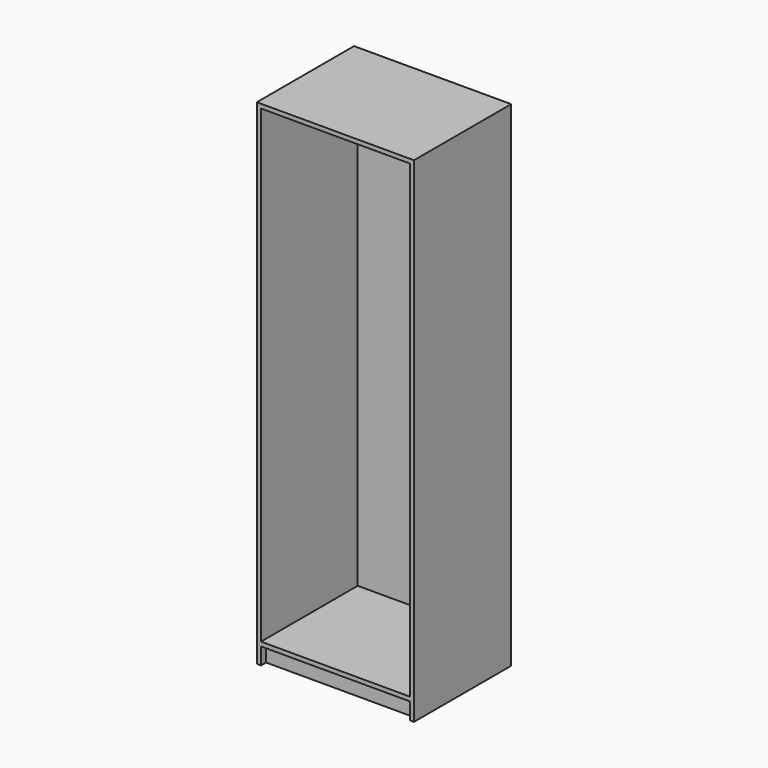
from build123d import *

# Parameters (mm, degrees)
F0_W     = 750
F0_H     = 2360
F1_DEPTH = 580
F2_W     = 710
F2_H     = 2240
F4_DEPTH = 577
F5_W     = 710
F5_H     = 80
F6_DEPTH = 30


with BuildPart() as f1:
    # F0 (on Front) → F1 (new body)
    with BuildSketch(Plane.XZ):
        with Locations((0, 1180)):
            Rectangle(F0_W, F0_H)
    extrude(amount=F1_DEPTH)

    # F2 (on face) → F4 (cut, through all)
    with BuildSketch(Plane.XZ.offset(580)):
        with Locations((0, 1220)):
            Rectangle(F2_W, F2_H)
    extrude(amount=-F4_DEPTH, mode=Mode.SUBTRACT)

    # F5 (on face) → F6 (cut)
    with BuildSketch(Plane.XZ.offset(580)):
        with Locations((0, 40)):
            Rectangle(F5_W, F5_H)
    extrude(amount=-F6_DEPTH, mode=Mode.SUBTRACT)


solid = f1.part
